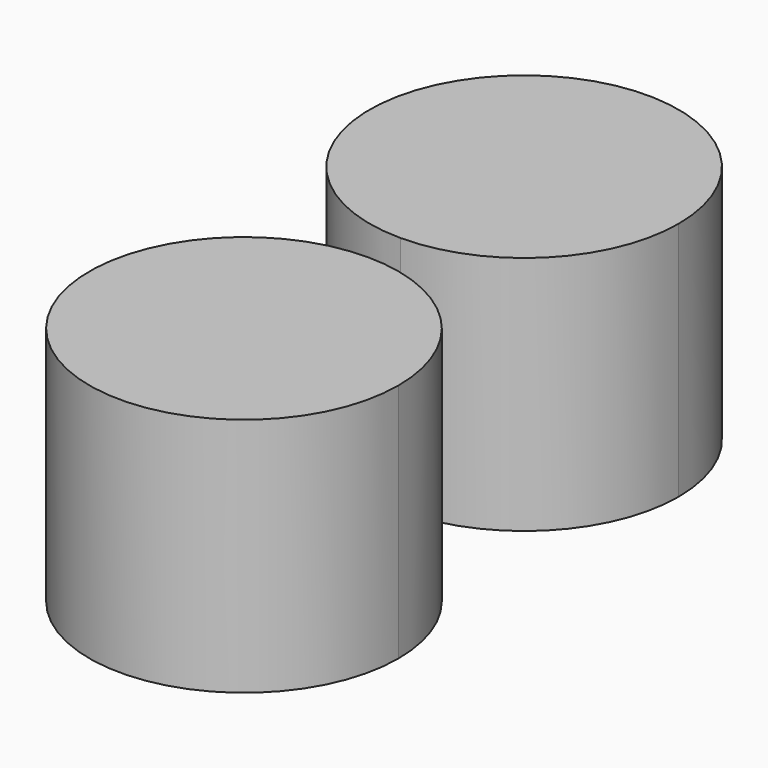
from build123d import *

# Parameters (mm, degrees)
F1_DEPTH = 1778


with BuildPart() as f1:
    # F0 (on Top) → F1 (new body)
    with BuildSketch(Plane.XY):
        with BuildLine():
            ThreePointArc((1143, 1295.4), (-808.223051, 2103.623051), (0, 152.4))
            ThreePointArc((0, 152.4), (808.223051, 487.176949), (1143, 1295.4))
        make_face()
        with BuildLine():
            ThreePointArc((1143, -1295.4), (808.223051, -487.176949), (0, -152.4))
            ThreePointArc((0, -152.4), (-808.223051, -2103.623051), (1143, -1295.4))
        make_face()
    extrude(amount=F1_DEPTH)


solid = f1.part
